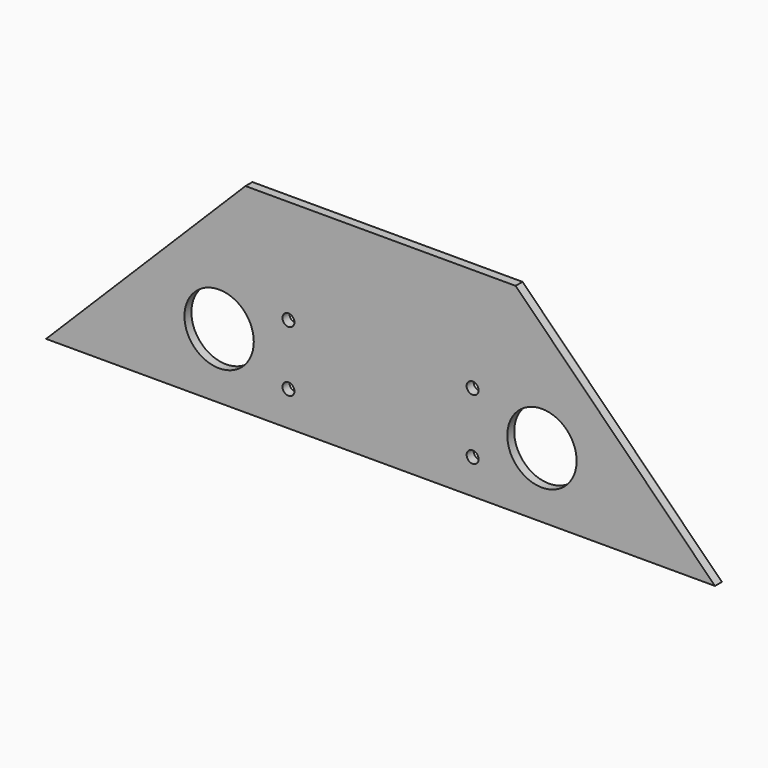
from build123d import *

# Parameters (mm, degrees)
F1_DEPTH = 3.175
F2_R     = 4.3688
F2_R_2   = 25.4
F3_DEPTH = 6.351


with BuildPart() as f1:
    # F0 (on Front) → F1 (new body, symmetric)
    with BuildSketch(Plane.XZ):
        Polygon((98.933, 0), (-98.933, 0), (-244.983, -146.05), (244.983, -146.05), align=None)
    extrude(amount=F1_DEPTH, both=True)

    # F2 (on face) → F3 (cut, through all)
    with BuildSketch(Plane.XZ.offset(3.175)):
        with Locations((67.437, -76.2)):
            Circle(F2_R)
        with Locations((67.437, -120.65)):
            Circle(F2_R)
        with Locations((-67.437, -76.2)):
            Circle(F2_R)
        with Locations((-67.437, -120.65)):
            Circle(F2_R)
        with Locations((-118.237, -98.425)):
            Circle(F2_R_2)
        with Locations((118.237, -98.425)):
            Circle(F2_R_2)
    extrude(amount=-F3_DEPTH, mode=Mode.SUBTRACT)


solid = f1.part
